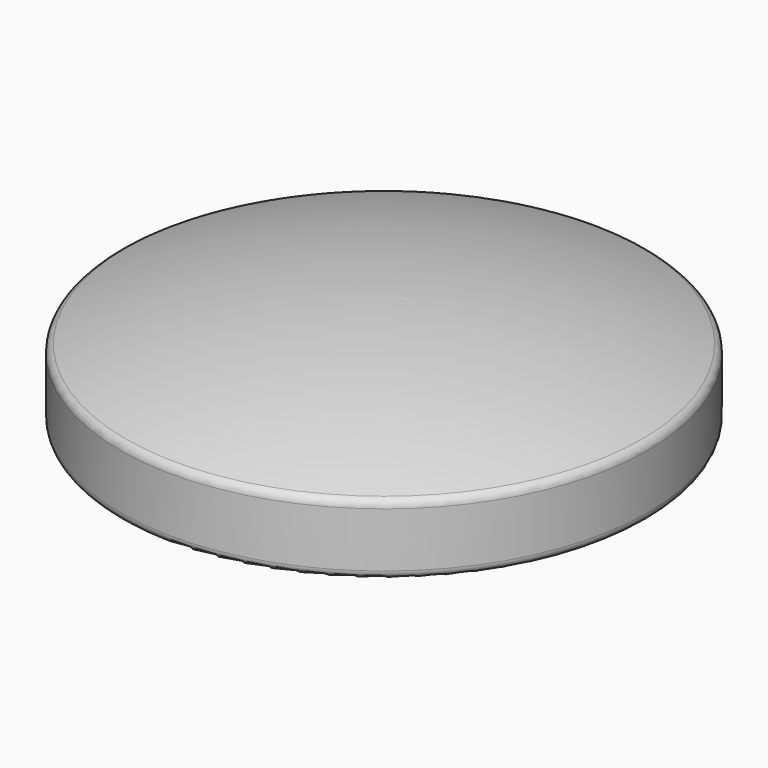
from build123d import *

# Parameters (mm, degrees)
F2_R = 1


with BuildPart() as f1:
    # F0 (on Front) → F1 (revolve)
    with BuildSketch(Plane.XZ):
        with BuildLine():
            Line((30.5, 0.257688), (30.5, 8.280634))
            ThreePointArc((30.5, 8.280634), (15.495967, 12.394634), (0, 13.780634))
            Line((0, 13.780634), (0, 10.780634))
            ThreePointArc((0, 10.780634), (13.640924, 9.708554), (26.946885, 6.51864))
            ThreePointArc((26.946885, 6.51864), (27.347112, 6.228056), (27.5, 5.757688))
            Line((27.5, 5.757688), (27.5, 1.614536))
            Line((27.5, 1.614536), (27.5, 1.601526))
            Line((27.5, 1.601526), (27.5, 0.257688))
            Line((27.5, 0.257688), (30.5, 0.257688))
        make_face()
    revolve(axis=Axis((0, 0, 6.860176), (0, 0, -1)))

    # F2
    f2_edges = [f1.edges().sort_by_distance(p)[0] for p in [
        (-30.5, 0, 8.280634),
        (-30.5, 0, 0.257688),
    ]]
    fillet(f2_edges, radius=F2_R)


solid = f1.part
